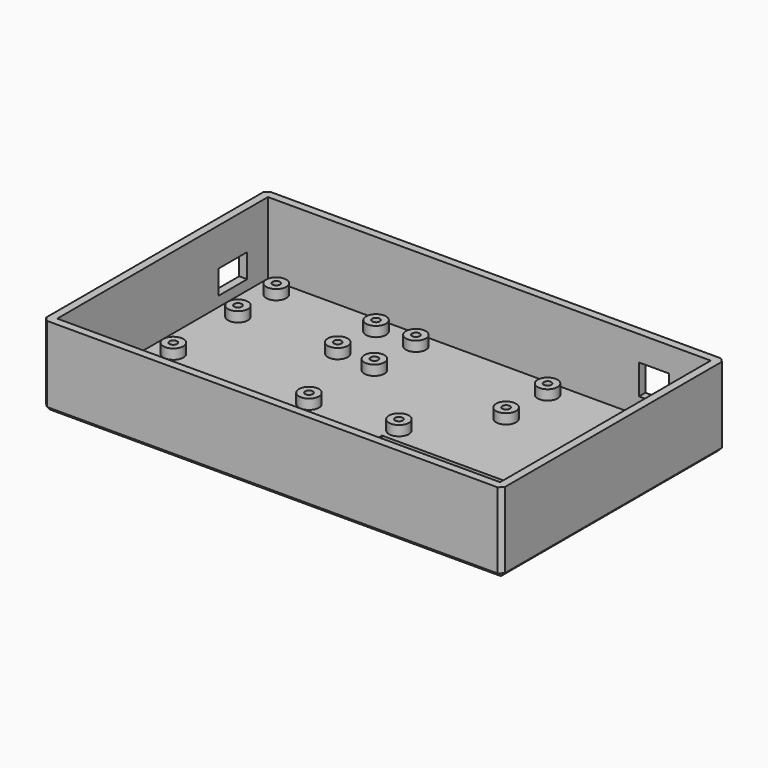
from build123d import *

# Parameters (mm, degrees)
SKETCH_W        = 230
SKETCH_H        = 140
PAD_DEPTH       = 40
SKETCH001_W     = 222
SKETCH001_H     = 132
POCKET_DEPTH    = 36
SKETCH002_W     = 98
SKETCH002_H     = 40
POCKET001_DEPTH = 5
SKETCH003_W     = 18
SKETCH003_H     = 12
POCKET002_DEPTH = 5
SKETCH004_W     = 15
SKETCH004_H     = 15
POCKET003_DEPTH = 5
SKETCH005_R     = 5
SKETCH005_R_2   = 1.9
PAD001_DEPTH    = 5
CHAMFER_SIZE    = 2


with BuildPart() as part:
    # Sketch → Pad (new body)
    with BuildSketch(Plane.XY):
        with Locations((115, 70)):
            Rectangle(SKETCH_W, SKETCH_H)
    extrude(amount=PAD_DEPTH)

    # Sketch001 (on Face6 of Pad) → Pocket (cut)
    with BuildSketch(Plane.XY.offset(40)):
        with Locations((115, 70)):
            Rectangle(SKETCH001_W, SKETCH001_H)
    extrude(amount=-POCKET_DEPTH, mode=Mode.SUBTRACT)

    # Sketch002 (on Face4 of Pocket) → Pocket001 (cut)
    with BuildSketch(Plane(origin=(0, 0, 0), x_dir=(1, 0, 0), z_dir=(0, 0, -1))):
        with Locations((171, -40)):
            Rectangle(SKETCH002_W, SKETCH002_H)
    extrude(amount=-POCKET001_DEPTH, mode=Mode.SUBTRACT)

    # Sketch003 (on Face2 of Pocket001) → Pocket002 (cut)
    with BuildSketch(Plane(origin=(0, 0, 0), x_dir=(0, -1, 0), z_dir=(-1, 0, 0))):
        with Locations((-114, 15)):
            Rectangle(SKETCH003_W, SKETCH003_H)
    extrude(amount=-POCKET002_DEPTH, mode=Mode.SUBTRACT)

    # Sketch004 (on Face6 of Pocket002) → Pocket003 (cut)
    with BuildSketch(Plane(origin=(0, 140, 0), x_dir=(-1, 0, 0), z_dir=(0, 1, 0))):
        with Locations((-197.5, 20)):
            Rectangle(SKETCH004_W, SKETCH004_H)
    extrude(amount=-POCKET003_DEPTH, mode=Mode.SUBTRACT)

    # Sketch005 (on Face23 of Pocket003) → Pad001 (join)
    with BuildSketch(Plane.XY.offset(4)):
        with Locations((217.5, 12.5)):
            Circle(SKETCH005_R)
        with Locations((217.5, 12.5)):
            Circle(SKETCH005_R_2, mode=Mode.SUBTRACT)
        with Locations((124.5, 12.5)):
            Circle(SKETCH005_R)
        with Locations((124.5, 12.5)):
            Circle(SKETCH005_R_2, mode=Mode.SUBTRACT)
        with Locations((217.5, 67.5)):
            Circle(SKETCH005_R)
        with Locations((217.5, 67.5)):
            Circle(SKETCH005_R_2, mode=Mode.SUBTRACT)
        with Locations((124.5, 67.5)):
            Circle(SKETCH005_R)
        with Locations((124.5, 67.5)):
            Circle(SKETCH005_R_2, mode=Mode.SUBTRACT)
        with Locations((15, 127.5)):
            Circle(SKETCH005_R)
        with Locations((15, 127.5)):
            Circle(SKETCH005_R_2, mode=Mode.SUBTRACT)
        with Locations((65, 127.5)):
            Circle(SKETCH005_R)
        with Locations((65, 127.5)):
            Circle(SKETCH005_R_2, mode=Mode.SUBTRACT)
        with Locations((65, 103.5)):
            Circle(SKETCH005_R)
        with Locations((65, 103.5)):
            Circle(SKETCH005_R_2, mode=Mode.SUBTRACT)
        with Locations((15, 103.5)):
            Circle(SKETCH005_R)
        with Locations((15, 103.5)):
            Circle(SKETCH005_R_2, mode=Mode.SUBTRACT)
        with Locations((15, 63)):
            Circle(SKETCH005_R)
        with Locations((15, 63)):
            Circle(SKETCH005_R_2, mode=Mode.SUBTRACT)
        with Locations((15, 15)):
            Circle(SKETCH005_R)
        with Locations((15, 15)):
            Circle(SKETCH005_R_2, mode=Mode.SUBTRACT)
        with Locations((83, 15)):
            Circle(SKETCH005_R)
        with Locations((83, 15)):
            Circle(SKETCH005_R_2, mode=Mode.SUBTRACT)
        with Locations((83, 63)):
            Circle(SKETCH005_R)
        with Locations((83, 63)):
            Circle(SKETCH005_R_2, mode=Mode.SUBTRACT)
        with Locations((85, 127.5)):
            Circle(SKETCH005_R)
        with Locations((85, 127.5)):
            Circle(SKETCH005_R_2, mode=Mode.SUBTRACT)
        with Locations((85, 101.5)):
            Circle(SKETCH005_R)
        with Locations((85, 101.5)):
            Circle(SKETCH005_R_2, mode=Mode.SUBTRACT)
        with Locations((151, 101.5)):
            Circle(SKETCH005_R)
        with Locations((151, 101.5)):
            Circle(SKETCH005_R_2, mode=Mode.SUBTRACT)
        with Locations((151, 127.5)):
            Circle(SKETCH005_R)
        with Locations((151, 127.5)):
            Circle(SKETCH005_R_2, mode=Mode.SUBTRACT)
    extrude(amount=PAD001_DEPTH)

    # Chamfer
    chamfer_edges = [part.edges().sort_by_distance(p)[0] for p in [
        (0, 140, 20),
        (115, 140, 0),
        (230, 140, 20),
        (230, 70, 0),
        (230, 0, 20),
        (115, 0, 0),
        (0, 0, 20),
        (0, 70, 0),
    ]]
    chamfer(chamfer_edges, length=CHAMFER_SIZE)


solid = part.part
